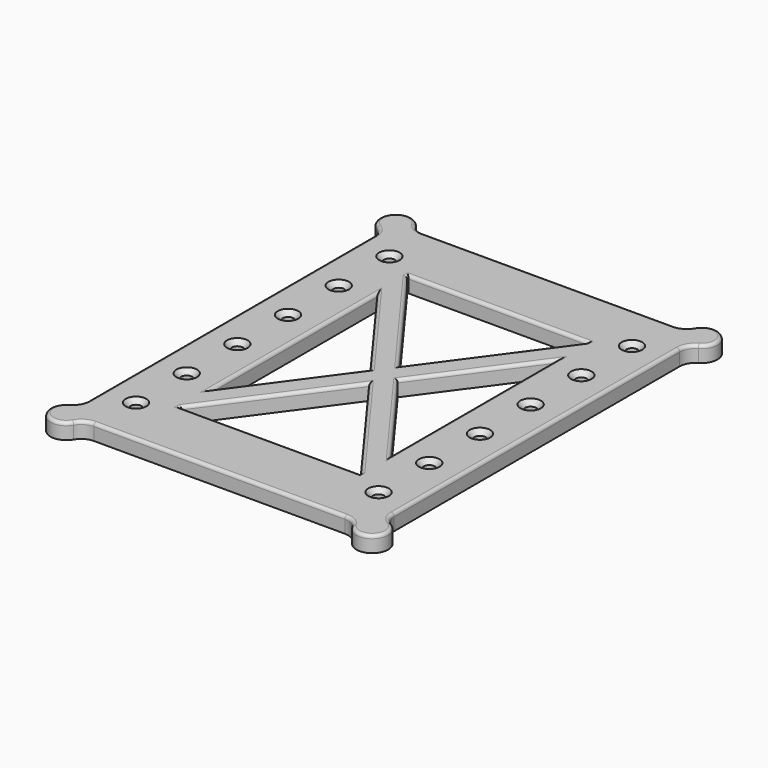
from build123d import *

# Parameters (mm, degrees)
F0_R     = 1.75
F1_DEPTH = 5
F2_SIZE  = 1.5
F3_R     = 5
F5_R     = 1


with BuildPart() as f1:
    # F0 (on Top) → F1 (new body)
    with BuildSketch(Plane.XY):
        with BuildLine():
            ThreePointArc((0, 5), (-3.5355339059, -3.5355339059), (5, 0))
            Line((5, 0), (91.6, 0))
            ThreePointArc((91.6, 0), (100.1355339059, -3.5355339059), (96.6, 5))
            Line((96.6, 5), (96.6, 125))
            ThreePointArc((96.6, 125), (100.1355339059, 133.5355339059), (91.6, 130))
            Line((91.6, 130), (5, 130))
            ThreePointArc((5, 130), (-3.5355339059, 133.5355339059), (0, 125))
            Line((0, 125), (0, 5))
        make_face()
        with Locations((10, 15)):
            Circle(F0_R, mode=Mode.SUBTRACT)
        with Locations((10, 35)):
            Circle(F0_R, mode=Mode.SUBTRACT)
        with Locations((10, 55)):
            Circle(F0_R, mode=Mode.SUBTRACT)
        Polygon((20, 62.5), (20, 67.5), (20, 97.7074235808), (42.136, 67.5), (43.968, 65), (42.136, 62.5), (20, 32.2925764192), align=None, mode=Mode.SUBTRACT)
        with Locations((86.6, 15)):
            Circle(F0_R, mode=Mode.SUBTRACT)
        Polygon((76.6, 20), (20, 20), (20, 20.4694323144), (45.8, 55.6768558952), (48.3, 59.0884279476), (50.8, 55.6768558952), (76.6, 20.4694323144), align=None, mode=Mode.SUBTRACT)
        Polygon((76.6, 97.7074235808), (76.6, 67.5), (76.6, 62.5), (76.6, 32.2925764192), (54.464, 62.5), (52.632, 65), (54.464, 67.5), align=None, mode=Mode.SUBTRACT)
        with Locations((86.6, 35)):
            Circle(F0_R, mode=Mode.SUBTRACT)
        with Locations((86.6, 55)):
            Circle(F0_R, mode=Mode.SUBTRACT)
        with Locations((10, 75)):
            Circle(F0_R, mode=Mode.SUBTRACT)
        with Locations((10, 95)):
            Circle(F0_R, mode=Mode.SUBTRACT)
        with Locations((10, 115)):
            Circle(F0_R, mode=Mode.SUBTRACT)
        Polygon((20, 109.5305676856), (20, 110), (45.8, 110), (50.8, 110), (76.6, 110), (76.6, 109.5305676856), (50.8, 74.3231441048), (48.3, 70.9115720524), (45.8, 74.3231441048), align=None, mode=Mode.SUBTRACT)
        with Locations((86.6, 75)):
            Circle(F0_R, mode=Mode.SUBTRACT)
        with Locations((86.6, 95)):
            Circle(F0_R, mode=Mode.SUBTRACT)
        with Locations((86.6, 115)):
            Circle(F0_R, mode=Mode.SUBTRACT)
    extrude(amount=F1_DEPTH)

    # F2
    f2_edges = [f1.edges().sort_by_distance(p)[0] for p in [
        (8.25, 15, 5),
        (8.25, 35, 5),
        (8.25, 55, 5),
        (8.25, 75, 5),
        (8.25, 95, 5),
        (8.25, 115, 5),
        (84.85, 115, 5),
        (84.85, 95, 5),
        (84.85, 75, 5),
        (84.85, 55, 5),
        (84.85, 35, 5),
        (84.85, 15, 5),
    ]]
    chamfer(f2_edges, length=F2_SIZE)

    # F3
    f3_edges = [f1.edges().sort_by_distance(p)[0] for p in [
        (5, 0, 2.5),
        (91.6, 0, 2.5),
        (96.6, 5, 2.5),
        (96.6, 125, 2.5),
        (91.6, 130, 2.5),
        (5, 130, 2.5),
        (0, 125, 2.5),
        (0, 5, 2.5),
    ]]
    fillet(f3_edges, radius=F3_R)

    # F5
    f5_edges = [f1.edges().sort_by_distance(p)[0] for p in [
        (48.3, 0, 5),
        (100.135534, -3.535534, 5),
        (90.439746, -0.669873, 5),
        (97.269873, 6.160254, 5),
        (96.6, 65, 5),
        (97.269873, 123.839746, 5),
        (100.135534, 133.535534, 5),
        (90.439746, 130.669873, 5),
        (48.3, 130, 5),
        (6.160254, 130.669873, 5),
        (-3.535534, 133.535534, 5),
        (-0.669873, 123.839746, 5),
        (0, 65, 5),
        (-0.669873, 6.160254, 5),
        (-3.535534, -3.535534, 5),
        (6.160254, -0.669873, 5),
        (31.984, 81.353712, 5),
        (20, 65, 5),
        (31.984, 48.646288, 5),
        (34.15, 90.22107, 5),
        (62.45, 90.22107, 5),
        (48.3, 110, 5),
        (64.616, 48.646288, 5),
        (64.616, 81.353712, 5),
        (76.6, 65, 5),
        (62.45, 39.77893, 5),
        (34.15, 39.77893, 5),
        (48.3, 20, 5),
        (20, 20.234716, 5),
        (76.6, 20.234716, 5),
        (76.6, 109.765284, 5),
        (20, 109.765284, 5),
    ]]
    fillet(f5_edges, radius=F5_R)


solid = f1.part
